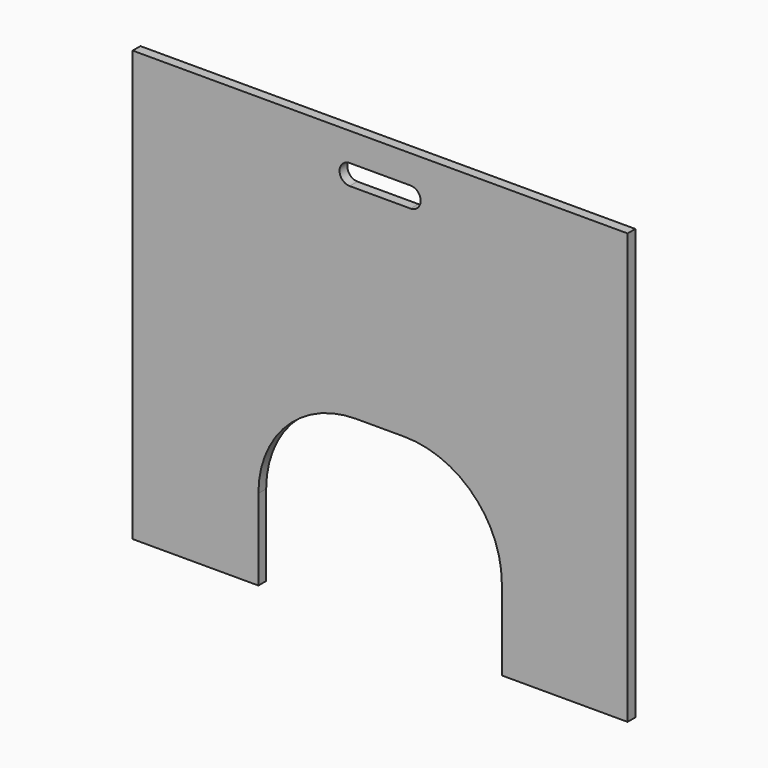
from build123d import *

# Parameters (mm, degrees)
F1_DEPTH = 6


with BuildPart() as f1:
    # F0 (on Front) → F1 (new body, symmetric)
    with BuildSketch(Plane.XZ):
        with BuildLine():
            Line((150, -256.2687826157), (305, -256.2687826157))
            Line((305, -256.2687826157), (305, 273.7312173843))
            Line((305, 273.7312173843), (-305, 273.7312173843))
            Line((-305, 273.7312173843), (-305, -256.2687826157))
            Line((-305, -256.2687826157), (-150, -256.2687826157))
            Line((-150, -256.2687826157), (-150, -156.2687826157))
            ThreePointArc((-150, -156.2687826157), (-114.8528137424, -71.4159688733), (-30, -36.2687826157))
            Line((-30, -36.2687826157), (30, -36.2687826157))
            ThreePointArc((30, -36.2687826157), (114.8528137424, -71.4159688733), (150, -156.2687826157))
            Line((150, -156.2687826157), (150, -256.2687826157))
        make_face()
        with BuildLine():
            Line((-37.5, 238.7312173843), (37.5, 238.7312173843))
            ThreePointArc((37.5, 238.7312173843), (50, 226.2312173843), (37.5, 213.7312173843))
            Line((37.5, 213.7312173843), (-37.5, 213.7312173843))
            ThreePointArc((-37.5, 213.7312173843), (-50, 226.2312173843), (-37.5, 238.7312173843))
        make_face(mode=Mode.SUBTRACT)
    extrude(amount=F1_DEPTH, both=True)


solid = f1.part
